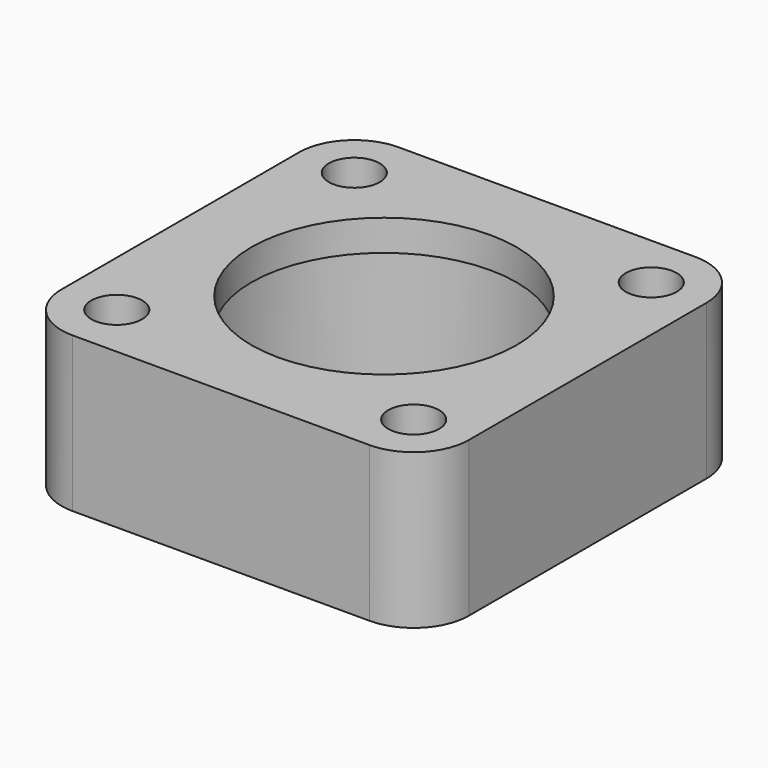
from build123d import *

# Parameters (mm, degrees)
F0_W     = 29.265608
F0_H     = 29.265608
F0_R     = 1.8288
F0_R_2   = 9.525
F1_DEPTH = 11.1125
F2_R     = 3.96875
F3_R     = 11.1125
F4_DEPTH = 8.89


with BuildPart() as f1:
    # F0 (on Top) → F1 (new body)
    with BuildSketch(Plane.XY):
        Rectangle(F0_W, F0_H)
        with Locations((-10.664054, -10.664054)):
            Circle(F0_R, mode=Mode.SUBTRACT)
        with Locations((10.664054, -10.664054)):
            Circle(F0_R, mode=Mode.SUBTRACT)
        with Locations((-10.664054, 10.664054)):
            Circle(F0_R, mode=Mode.SUBTRACT)
        Circle(F0_R_2, mode=Mode.SUBTRACT)
        with Locations((10.664054, 10.664054)):
            Circle(F0_R, mode=Mode.SUBTRACT)
    extrude(amount=F1_DEPTH)

    # F2
    f2_edges = [f1.edges().sort_by_distance(p)[0] for p in [
        (-14.632804, 14.632804, 5.55625),
        (-14.632804, -14.632804, 5.55625),
        (14.632804, -14.632804, 5.55625),
        (14.632804, 14.632804, 5.55625),
    ]]
    fillet(f2_edges, radius=F2_R)

    # F3 (on face) → F4 (cut)
    with BuildSketch(Plane(origin=(0, 0, 0), x_dir=(1, 0, 0), z_dir=(0, 0, -1))):
        Circle(F3_R)
    extrude(amount=-F4_DEPTH, mode=Mode.SUBTRACT)


solid = f1.part
